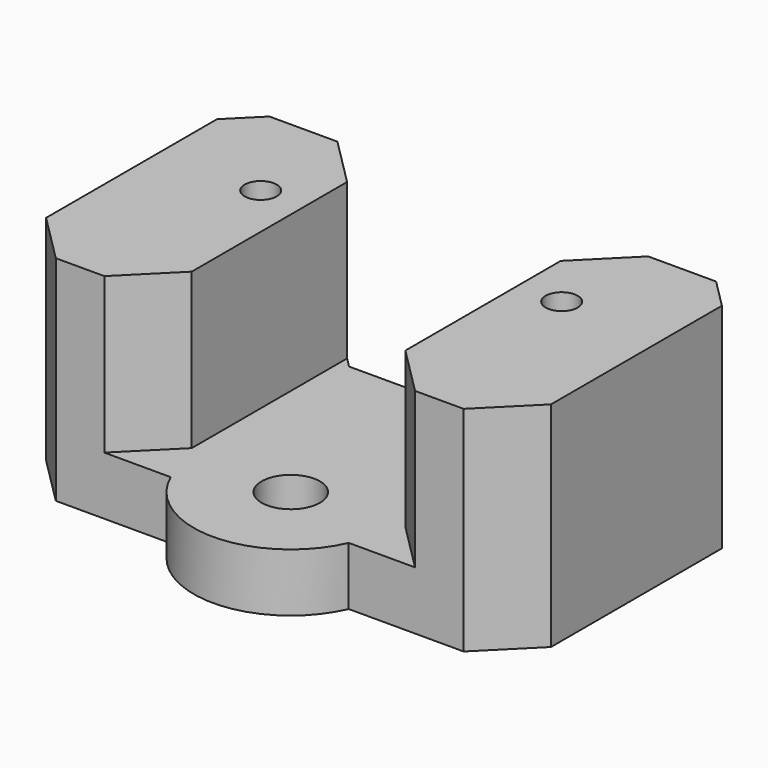
from build123d import *

# Parameters (mm, degrees)
CYLINDER024_R     = 3
CYLINDER024_DEPTH = 10
BOX016_W          = 22
BOX016_H          = 30
BOX016_DEPTH      = 16
BOX015_W          = 34
BOX015_H          = 10
BOX015_DEPTH      = 22
CHAMFER024_SIZE   = 7
CYLINDER033_R     = 3.5
CYLINDER033_DEPTH = 5
CYLINDER032_R     = 3.5
CYLINDER032_DEPTH = 5
CYLINDER031_R     = 1.65
CYLINDER031_DEPTH = 47
CYLINDER030_R     = 1.65
CYLINDER030_DEPTH = 47
BOX014_W          = 32
BOX014_H          = 30
BOX014_DEPTH      = 16
CHAMFER020_SIZE   = 5
CYLINDER027_R     = 10
CYLINDER027_DEPTH = 6
BOX013_W          = 52
BOX013_H          = 30
BOX013_DEPTH      = 22
CHAMFER021_SIZE   = 5
CHAMFER023_SIZE   = 3


with BuildPart() as obj1:
    # Cylinder024 → Cylinder024 (new body)
    with BuildSketch(Plane(origin=(26, 125, 7), x_dir=(1, 0, 0), z_dir=(0, 0, 1))):
        Circle(CYLINDER024_R)
    extrude(amount=CYLINDER024_DEPTH)


with BuildPart() as cube016:
    # Box016 → Box016 (new body)
    with BuildSketch(Plane(origin=(15, 121, 14), x_dir=(1, 0, 0), z_dir=(0, 0, 1))):
        with Locations((11, 15)):
            Rectangle(BOX016_W, BOX016_H)
    extrude(amount=BOX016_DEPTH)


with BuildPart() as chamfer024:
    # Box015 → Box015 (new body)
    with BuildSketch(Plane(origin=(9, 145, 8), x_dir=(1, 0, 0), z_dir=(0, 0, 1))):
        with Locations((17, 5)):
            Rectangle(BOX015_W, BOX015_H)
    extrude(amount=BOX015_DEPTH)

    # Chamfer024
    chamfer024_edges = [chamfer024.edges().sort_by_distance(p)[0] for p in [
        (9, 145, 19),
        (43, 145, 19),
    ]]
    chamfer(chamfer024_edges, length=CHAMFER024_SIZE)


with BuildPart() as cylinder033:
    # Cylinder033 → Cylinder033 (new body)
    with BuildSketch(Plane(origin=(10.5, 140.5, 4), x_dir=(1, 0, 0), z_dir=(0, 0, 1))):
        Circle(CYLINDER033_R)
    extrude(amount=CYLINDER033_DEPTH)


with BuildPart() as fusion022:
    # Cylinder032 → Cylinder032 (new body)
    with BuildSketch(Plane(origin=(41.5, 140.5, 4), x_dir=(1, 0, 0), z_dir=(0, 0, 1))):
        Circle(CYLINDER032_R)
    extrude(amount=CYLINDER032_DEPTH)

    # Fusion022: union Cylinder033
    add(cylinder033.part)


with BuildPart() as fusion022_1:
    # Fusion022 placement: moved
    add(fusion022.part.moved(Location((0, 0, 3))))


with BuildPart() as cylinder031:
    # Cylinder031 → Cylinder031 (new body)
    with BuildSketch(Plane(origin=(41.5, 140.5, 4), x_dir=(1, 0, 0), z_dir=(0, 0, 1))):
        Circle(CYLINDER031_R)
    extrude(amount=CYLINDER031_DEPTH)


with BuildPart() as fusion008019:
    # Cylinder030 → Cylinder030 (new body)
    with BuildSketch(Plane(origin=(10.5, 140.5, 4), x_dir=(1, 0, 0), z_dir=(0, 0, 1))):
        Circle(CYLINDER030_R)
    extrude(amount=CYLINDER030_DEPTH)

    # Fusion021: union Cylinder031
    add(cylinder031.part)

    # Fusion008019: union Fusion022
    add(fusion022_1.part)


with BuildPart() as chamfer020:
    # Box014 → Box014 (new body)
    with BuildSketch(Plane(origin=(10, 96, 14), x_dir=(1, 0, 0), z_dir=(0, 0, 1))):
        with Locations((16, 15)):
            Rectangle(BOX014_W, BOX014_H)
    extrude(amount=BOX014_DEPTH)

    # Chamfer020
    chamfer020_edges = [chamfer020.edges().sort_by_distance(p)[0] for p in [
        (10, 126, 22),
        (42, 126, 22),
    ]]
    chamfer(chamfer020_edges, length=CHAMFER020_SIZE)


with BuildPart() as cylinder008:
    # Cylinder027 → Cylinder027 (new body)
    with BuildSketch(Plane(origin=(26, 125, 8), x_dir=(1, 0, 0), z_dir=(0, 0, 1))):
        Circle(CYLINDER027_R)
    extrude(amount=CYLINDER027_DEPTH)


with BuildPart() as cut002003021011:
    # Box013 → Box013 (new body)
    with BuildSketch(Plane(origin=(0, 121, 8), x_dir=(1, 0, 0), z_dir=(0, 0, 1))):
        with Locations((26, 15)):
            Rectangle(BOX013_W, BOX013_H)
    extrude(amount=BOX013_DEPTH)

    # Fusion018: union Cylinder008
    add(cylinder008.part)

    # Chamfer021
    chamfer021_edges = [cut002003021011.edges().sort_by_distance(p)[0] for p in [
        (0, 121, 19),
        (52, 121, 19),
    ]]
    chamfer(chamfer021_edges, length=CHAMFER021_SIZE)

    # Chamfer023
    chamfer023_edges = [cut002003021011.edges().sort_by_distance(p)[0] for p in [
        (0, 151, 19),
        (52, 151, 19),
    ]]
    chamfer(chamfer023_edges, length=CHAMFER023_SIZE)

    # Cut002003021007: cut Chamfer020
    add(chamfer020.part, mode=Mode.SUBTRACT)

    # Cut002003021008: cut Fusion008019
    add(fusion008019.part, mode=Mode.SUBTRACT)

    # Cut002003021009: cut Chamfer024
    add(chamfer024.part, mode=Mode.SUBTRACT)

    # Cut002003021010: cut Cube016
    add(cube016.part, mode=Mode.SUBTRACT)

    # Cut002003021011: cut obj1
    add(obj1.part, mode=Mode.SUBTRACT)


solid = cut002003021011.part
